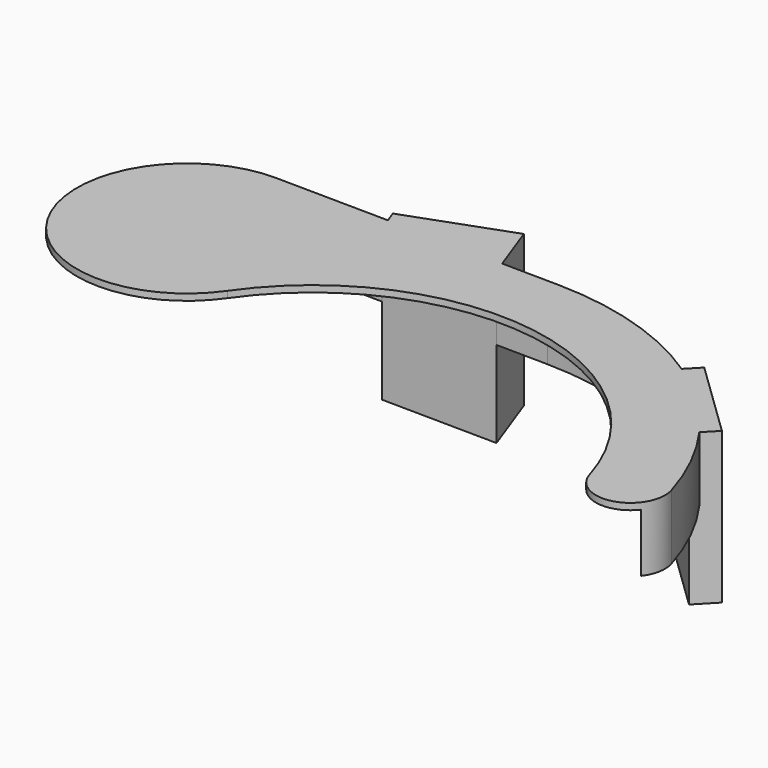
from build123d import *

# Parameters (mm, degrees)
PAD_DEPTH       = 15
SKETCH002_R     = 67
POCKET_DEPTH    = 13.5
POCKET001_DEPTH = 13.5
PAD001_DEPTH    = 35
PAD002_DEPTH    = 35


with BuildPart() as part:
    # Sketch001 → Pad (new body)
    with BuildSketch(Plane.XY):
        with BuildLine():
            ThreePointArc((67.082039, 20), (42.17208, 55.870526), (0.847707, 69.994867))
            Line((0.847707, 69.994867), (-65, 70.792348))
            ThreePointArc((-65, 70.792348), (-87.960697, 33.627781), (-44.368352, 30.780665))
            ThreePointArc((51.749002, 15.428571), (8.517053, 53.324102), (-44.368352, 30.780665))
            ThreePointArc((51.749002, 15.428571), (61.701235, 10.047767), (67.082039, 20))
        make_face()
    extrude(amount=PAD_DEPTH)

    # Sketch002 → Pocket (cut)
    with BuildSketch(Plane(origin=(0, 0, 0), x_dir=(1, 0, 0), z_dir=(0, 0, -1))):
        Circle(SKETCH002_R)
    extrude(amount=-POCKET_DEPTH, mode=Mode.SUBTRACT)

    # Sketch003 → Pocket001 (cut)
    with BuildSketch(Plane(origin=(0, 0, 0), x_dir=(1, 0, 0), z_dir=(0, 0, -1))):
        Polygon((-152.534362, -68.852256), (0.811393, -66.995087), (-35.4631, 35.7409), align=None)
    extrude(amount=-POCKET001_DEPTH, mode=Mode.SUBTRACT)

    # Sketch005 → Pad001 (new body)
    with BuildSketch(Plane.XY.offset(15)):
        Polygon((37.550363, 56.878996), (41.718314, 61.195035), (59.701809, 43.828576), (55.533858, 39.512537), align=None)
    extrude(amount=-PAD001_DEPTH)

    # Sketch006 → Pad002 (new body)
    with BuildSketch(Plane.XY.offset(15)):
        Polygon((-37.856891, 67.463398), (-39.909012, 73.101554), (-16.416696, 81.652057), (-11.134654, 67.139765), align=None)
    extrude(amount=-PAD002_DEPTH)


solid = part.part
